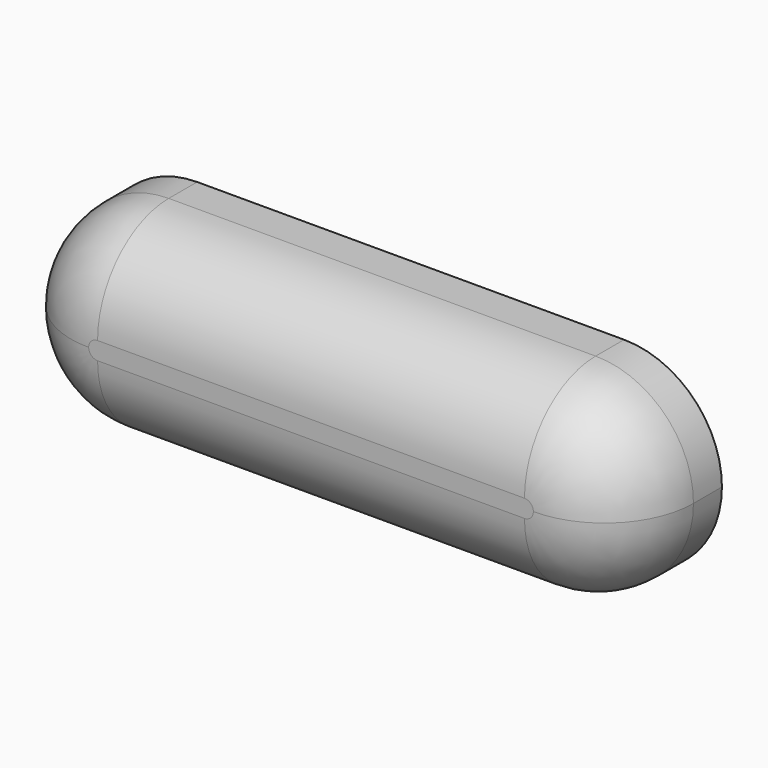
from build123d import *

# Parameters (mm, degrees)
F1_DEPTH = 70
F2_R     = 50
F3_T     = -5


with BuildPart() as f1:
    # F0 (on Front) → F1 (new body)
    with BuildSketch(Plane.XZ):
        with BuildLine():
            Line((195.61244, 127.258498), (-44.38756, 127.258498))
            ThreePointArc((-44.38756, 127.258498), (-83.278433, 111.149371), (-99.38756, 72.258498))
            ThreePointArc((-99.38756, 72.258498), (-83.278433, 33.367625), (-44.38756, 17.258498))
            Line((-44.38756, 17.258498), (195.61244, 17.258498))
            ThreePointArc((195.61244, 17.258498), (234.503313, 33.367625), (250.61244, 72.258498))
            ThreePointArc((250.61244, 72.258498), (234.503313, 111.149371), (195.61244, 127.258498))
        make_face()
    extrude(amount=F1_DEPTH)

    # F2
    f2_edges = [f1.edges().sort_by_distance(p)[0] for p in [
        (75.61244, -70, 127.258498),
        (-99.38756, -70, 72.258498),
        (75.61244, -70, 17.258498),
        (250.61244, -70, 72.258498),
    ]]
    fillet(f2_edges, radius=F2_R)

    # F3
    f3_openings = [f1.faces().sort_by_distance(p)[0] for p in [
        (75.61244, 0, 72.258498),
    ]]
    offset(amount=F3_T, openings=f3_openings)


solid = f1.part
